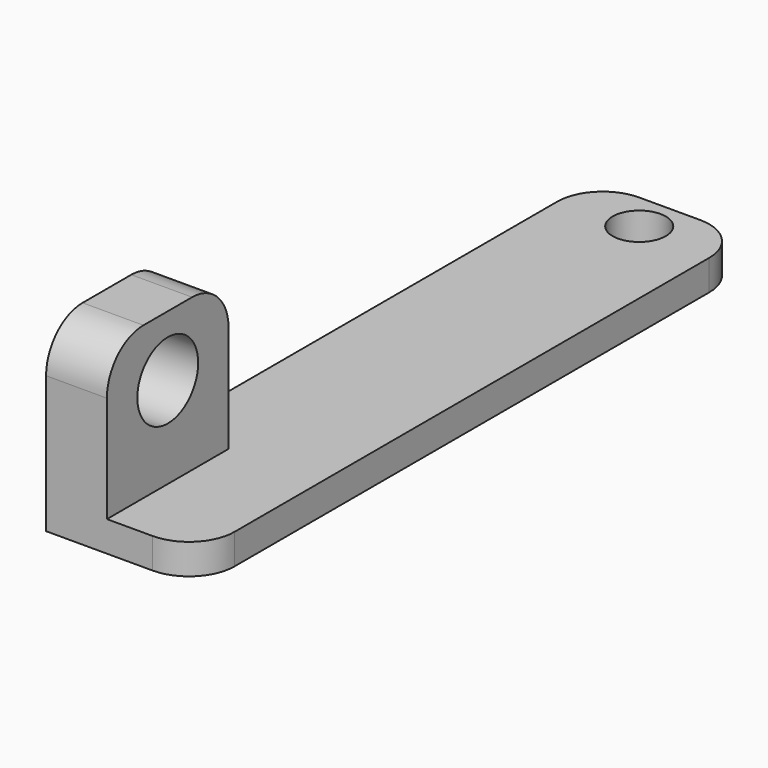
from build123d import *

# Parameters (mm, degrees)
F0_W     = 10
F0_H     = 45
F0_R     = 1.75
F1_DEPTH = 2
F2_W     = 4
F2_H     = 10
F3_DEPTH = 10
F4_R     = 3
F5_R     = 2.5
F6_DEPTH = 25.4


with BuildPart() as f1:
    # F0 (on Top) → F1 (new body)
    with BuildSketch(Plane.XY):
        with Locations((5, 22.5)):
            Rectangle(F0_W, F0_H)
        with Locations((5, 42.5)):
            Circle(F0_R, mode=Mode.SUBTRACT)
    extrude(amount=F1_DEPTH)

    # F2 (on face) → F3 (join)
    with BuildSketch(Plane.XY.offset(2)):
        with Locations((2, 5)):
            Rectangle(F2_W, F2_H)
    extrude(amount=F3_DEPTH)

    # F4
    f4_edges = [f1.edges().sort_by_distance(p)[0] for p in [
        (10, 45, 1),
        (10, 0, 1),
        (0, 45, 1),
        (2, 0, 12),
        (2, 10, 12),
    ]]
    fillet(f4_edges, radius=F4_R)

    # F5 (on face) → F6 (cut)
    with BuildSketch(Plane.YZ.offset(4)):
        with Locations((5, 8)):
            Circle(F5_R)
    extrude(amount=-F6_DEPTH, mode=Mode.SUBTRACT)


solid = f1.part
